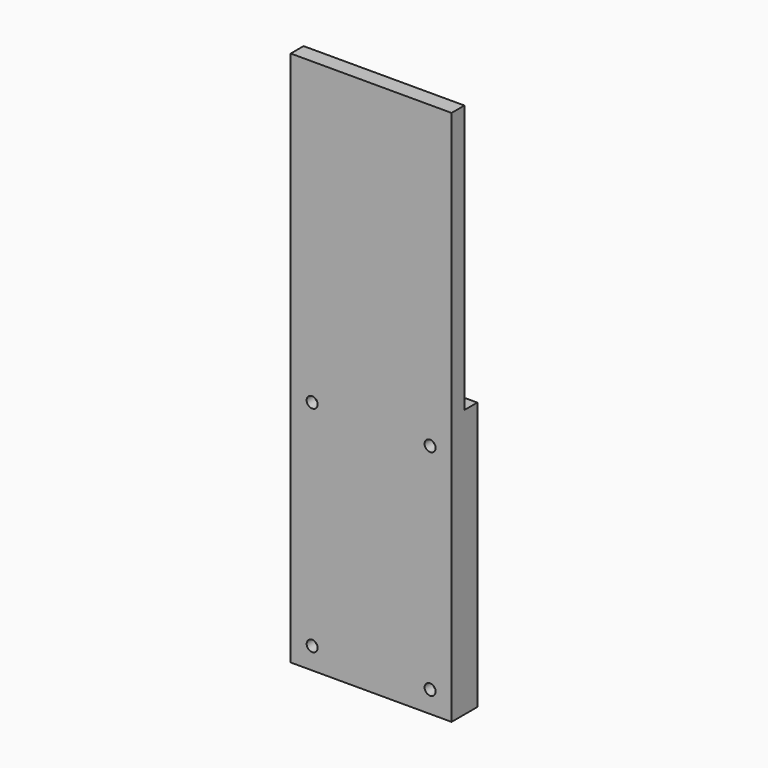
from build123d import *

# Parameters (mm, degrees)
F0_W     = 30
F0_H     = 6
F1_DEPTH = 100
F2_R     = 1.025
F3_DEPTH = 6
F4_W     = 3
F4_H     = 50
F5_DEPTH = 30
F6_W     = 4.600006
F6_H     = 4.600006
F6_W_2   = 4.6
F6_H_2   = 4.6
F6_W_3   = 4.600004
F6_H_3   = 4.600004
F7_DEPTH = 3
F8_R     = 2.5
F9_DEPTH = 4.1


with BuildPart() as f1:
    # F0 (on Top) → F1 (new body)
    with BuildSketch(Plane.XY):
        Rectangle(F0_W, F0_H)
    extrude(amount=F1_DEPTH)

    # F2 (on face) → F3 (cut, through all)
    with BuildSketch(Plane.XZ.offset(3)):
        with Locations((11, 4.025)):
            Circle(F2_R)
        with Locations((11, 44.025)):
            Circle(F2_R)
        with Locations((-11, 44.025)):
            Circle(F2_R)
        with Locations((-11, 4.025)):
            Circle(F2_R)
    extrude(amount=-F3_DEPTH, mode=Mode.SUBTRACT)

    # F4 (on face) → F5 (cut, through all)
    with BuildSketch(Plane.YZ.offset(15)):
        with Locations((1.5, 75)):
            Rectangle(F4_W, F4_H)
    extrude(amount=-F5_DEPTH, mode=Mode.SUBTRACT)

    # F6 (on face) → F7 (join)
    with BuildSketch(Plane(origin=(0, 0, 0), x_dir=(-1, 0, 0), z_dir=(0, 1, 0))):
        with Locations((-7.5, 92.5)):
            Rectangle(F6_W, F6_H)
        with Locations((7.5, 92.5)):
            Rectangle(F6_W, F6_H)
        with Locations((-7.5, 62.5)):
            Rectangle(F6_W_2, F6_H_2)
        with Locations((7.5, 62.5)):
            Rectangle(F6_W_3, F6_H_3)
    extrude(amount=F7_DEPTH)

    # F8 (on face) → F9 (cut)
    with BuildSketch(Plane(origin=(0, 3, 0), x_dir=(-1, 0, 0), z_dir=(0, 1, 0))):
        with Locations((11, 44.025)):
            Circle(F8_R)
        with Locations((-11, 44.025)):
            Circle(F8_R)
        with Locations((-11, 4.025)):
            Circle(F8_R)
        with Locations((11, 4.025)):
            Circle(F8_R)
    extrude(amount=-F9_DEPTH, mode=Mode.SUBTRACT)


solid = f1.part
